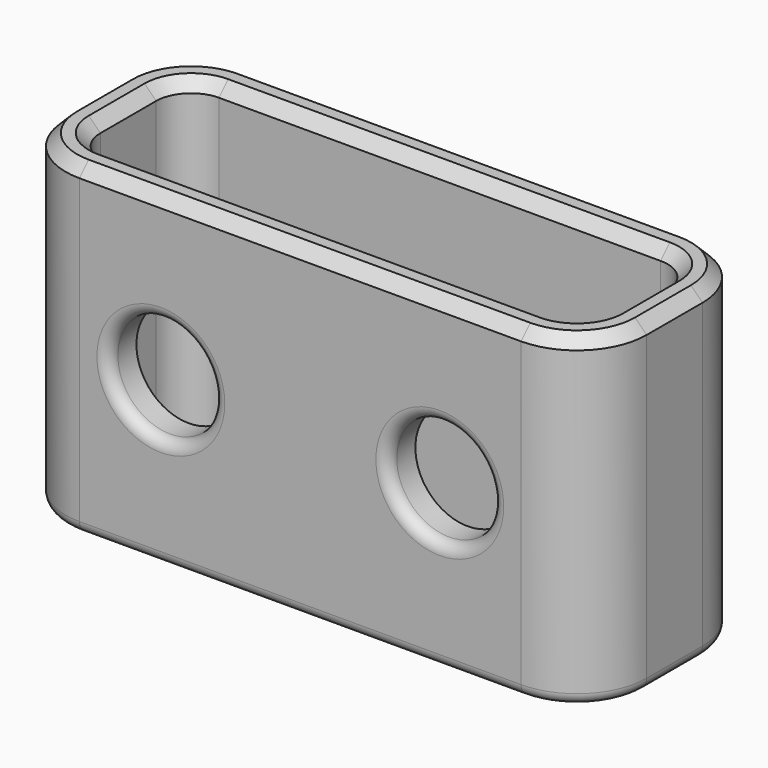
from build123d import *

# Parameters (mm, degrees)
F1_DEPTH = 14
F2_T     = -1.5
F3_R     = 2.25
F4_DEPTH = 5
F5_R     = 0.5
F6_SIZE  = 0.5


with BuildPart() as f1:
    # F0 (on Top) → F1 (new body)
    with BuildSketch(Plane.XY):
        with BuildLine():
            ThreePointArc((-12.5, -1.5), (-11.6213203436, -3.6213203436), (-9.5, -4.5))
            Line((-9.5, -4.5), (9.5, -4.5))
            ThreePointArc((9.5, -4.5), (11.6213203436, -3.6213203436), (12.5, -1.5))
            Line((12.5, -1.5), (12.5, 1.5))
            ThreePointArc((12.5, 1.5), (11.6213203436, 3.6213203436), (9.5, 4.5))
            Line((9.5, 4.5), (-9.5, 4.5))
            ThreePointArc((-9.5, 4.5), (-11.6213203436, 3.6213203436), (-12.5, 1.5))
            Line((-12.5, 1.5), (-12.5, -1.5))
        make_face()
    extrude(amount=F1_DEPTH)

    # F2
    f2_openings = [f1.faces().sort_by_distance(p)[0] for p in [
        (0, 0, 14),
        (0, 0, 0),
    ]]
    offset(amount=F2_T, openings=f2_openings)

    # F3 (on face) → F4 (cut)
    with BuildSketch(Plane.XZ.offset(4.5)):
        with Locations((-6, 7)):
            Circle(F3_R)
        with Locations((6, 7)):
            Circle(F3_R)
    extrude(amount=-F4_DEPTH, mode=Mode.SUBTRACT)

    # F5
    f5_edges = [f1.edges().sort_by_distance(p)[0] for p in [
        (0, 4.5, 0),
        (0, -3, 0),
        (3.75, -4.5, 7),
        (-8.25, -4.5, 7),
    ]]
    fillet(f5_edges, radius=F5_R)

    # F6
    f6_edges = [f1.edges().sort_by_distance(p)[0] for p in [
        (0, -4.5, 14),
        (0, -3, 14),
    ]]
    chamfer(f6_edges, length=F6_SIZE)


solid = f1.part
